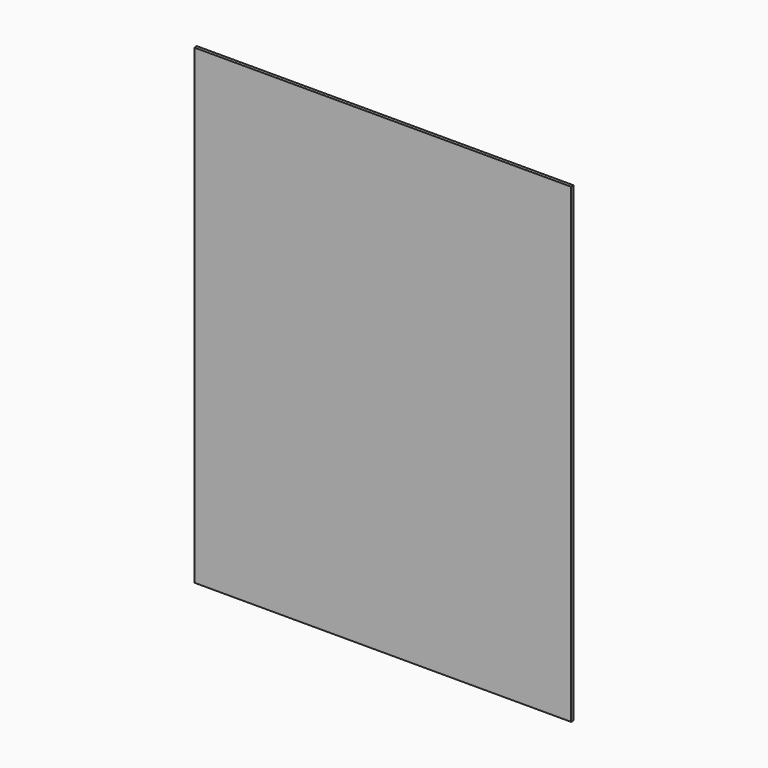
from build123d import *

# Parameters (mm, degrees)
F0_W     = 304.8
F0_H     = 381
F1_DEPTH = 2.54
F2_DEPTH = 0.0254


with BuildPart() as f1:
    # F0 (on Front) → F1 (new body)
    with BuildSketch(Plane.XZ):
        Rectangle(F0_W, F0_H)
    extrude(amount=F1_DEPTH)

    # F0 (on Front) → F2 (join)
    with BuildSketch(Plane.XZ):
        Rectangle(F0_W, F0_H)
    extrude(amount=-F2_DEPTH)


solid = f1.part
